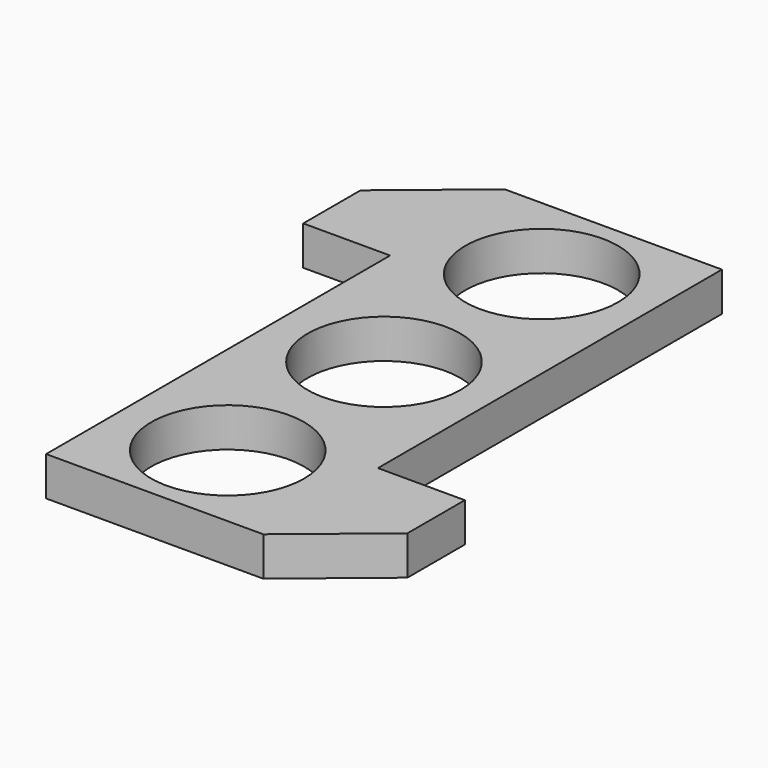
from build123d import *

# Parameters (mm, degrees)
F0_R     = 11.176
F1_DEPTH = 5.715


with BuildPart() as f1:
    # F0 (on Top) → F1 (new body)
    with BuildSketch(Plane.XY):
        with BuildLine():
            Line((14.771742, -20.371711), (14.771742, 0.583289))
            ThreePointArc((14.771742, 0.583289), (-1.103258, -15.291711), (-16.978258, 0.583289))
            Line((-16.978258, 0.583289), (-16.978258, -41.326711))
            Line((-16.978258, -41.326711), (14.771742, -41.326711))
            Line((14.771742, -41.326711), (14.771742, -20.371711))
        make_face()
        with Locations((-1.35877, -27.66218)):
            Circle(F0_R, mode=Mode.SUBTRACT)
        with BuildLine():
            ThreePointArc((-16.978258, 0.583289), (-1.103258, -15.291711), (14.771742, 0.583289))
            ThreePointArc((14.771742, 0.583289), (-1.103258, 16.458289), (-16.978258, 0.583289))
        make_face()
        with Locations((-1.103258, 0.583289)):
            Circle(F0_R, mode=Mode.SUBTRACT)
        with BuildLine():
            ThreePointArc((-16.978258, 0.583289), (-1.103258, 16.458289), (14.771742, 0.583289))
            Line((14.771742, 0.583289), (14.771742, 42.493289))
            Line((14.771742, 42.493289), (-16.978258, 42.493289))
            Line((-16.978258, 42.493289), (-16.978258, 21.538289))
            Line((-16.978258, 21.538289), (-16.978258, 0.583289))
        make_face()
        with Locations((-0.603735, 28.776065)):
            Circle(F0_R, mode=Mode.SUBTRACT)
        Polygon((27.471742, -20.371711), (14.771742, -20.371711), (14.771742, -41.326711), (27.471742, -30.849211), align=None)
        Polygon((-29.678258, 21.538289), (-16.978258, 21.538289), (-16.978258, 42.493289), (-29.678258, 32.015789), align=None)
    extrude(amount=F1_DEPTH)


solid = f1.part
